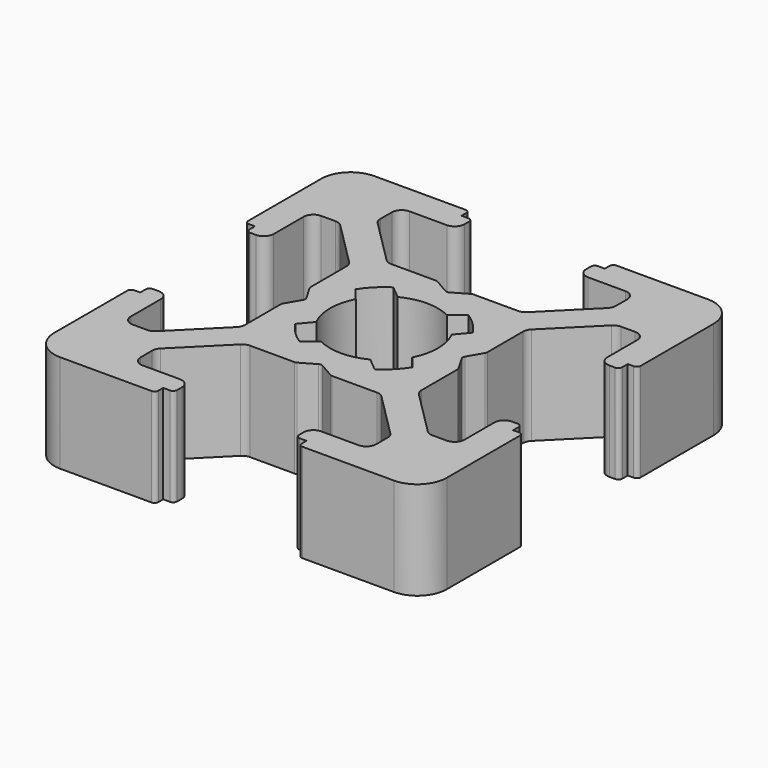
from build123d import *

# Parameters (mm, degrees)
PAD_DEPTH    = 5
POCKET_DEPTH = 5.001


with BuildPart() as part:
    # Sketch → Pad (new body)
    with BuildSketch(Plane(origin=(1.5, 0, 0), x_dir=(1, 0, 0), z_dir=(0, 0, 1))):
        with BuildLine():
            Line((0, 20), (4.65, 20))
            ThreePointArc((4.85, 19.8), (4.791421, 19.941421), (4.65, 20))
            Line((4.85, 19.8), (4.85, 19.5))
            Line((4.85, 19.5), (5.2, 19.5))
            ThreePointArc((5.4, 19.3), (5.341421, 19.441421), (5.2, 19.5))
            Line((5.4, 19.3), (5.4, 19))
            ThreePointArc((4.9, 18.5), (5.253553, 18.646446), (5.4, 19))
            Line((4.9, 18.5), (2.999999, 18.5))
            ThreePointArc((2.999999, 18.5), (2.646446, 18.353553), (2.499999, 18))
            Line((2.499999, 18), (2.499999, 17.267767))
            ThreePointArc((2.499999, 17.267767), (2.53806, 17.076425), (2.646446, 16.914213))
            Line((2.646446, 16.914213), (4.914213, 14.646447))
            ThreePointArc((4.914213, 14.646447), (5.076424, 14.53806), (5.267766, 14.5))
            Line((5.267766, 14.5), (7.54641, 14.5))
            ThreePointArc((7.64641, 14.473205), (7.598173, 14.493185), (7.54641, 14.5))
            Line((7.64641, 14.473205), (8.4, 14.03812))
            ThreePointArc((8.4, 14.03812), (8.5, 14.011325), (8.6, 14.03812))
            Line((8.6, 14.03812), (9.35359, 14.473205))
            ThreePointArc((9.45359, 14.5), (9.401827, 14.493185), (9.35359, 14.473205))
            Line((9.45359, 14.5), (11.732234, 14.5))
            ThreePointArc((11.732234, 14.5), (11.923576, 14.53806), (12.085787, 14.646447))
            Line((12.085787, 14.646447), (14.353554, 16.914213))
            ThreePointArc((14.353554, 16.914213), (14.46194, 17.076425), (14.500001, 17.267767))
            Line((14.500001, 17.267767), (14.500001, 18))
            ThreePointArc((14.500001, 18), (14.353554, 18.353553), (14.000001, 18.5))
            Line((14.000001, 18.5), (12.1, 18.5))
            ThreePointArc((11.6, 19), (11.746447, 18.646446), (12.1, 18.5))
            Line((11.6, 19), (11.6, 19.3))
            ThreePointArc((11.8, 19.5), (11.658579, 19.441421), (11.6, 19.3))
            Line((11.8, 19.5), (12.15, 19.5))
            Line((12.15, 19.5), (12.15, 19.8))
            ThreePointArc((12.35, 20), (12.208579, 19.941421), (12.15, 19.8))
            Line((12.35, 20), (17, 20))
            ThreePointArc((18.5, 18.5), (18.06066, 19.56066), (17, 20))
            Line((18.5, 18.5), (18.5, 13.85))
            ThreePointArc((18.3, 13.65), (18.441421, 13.708578), (18.5, 13.85))
            Line((18.3, 13.65), (18, 13.65))
            Line((18, 13.65), (18, 13.3))
            ThreePointArc((17.8, 13.1), (17.941421, 13.158579), (18, 13.3))
            Line((17.8, 13.1), (17.5, 13.1))
            ThreePointArc((17, 13.6), (17.146446, 13.246447), (17.5, 13.1))
            Line((17, 13.6), (17, 15.5))
            ThreePointArc((17, 15.5), (16.853553, 15.853553), (16.5, 16))
            Line((16.5, 16), (15.767767, 16))
            ThreePointArc((15.767767, 16), (15.576425, 15.961939), (15.414213, 15.853553))
            Line((15.414213, 15.853553), (13.146446, 13.585786))
            ThreePointArc((13.146446, 13.585786), (13.03806, 13.423574), (13, 13.232233))
            Line((13, 13.232233), (13, 10.953589))
            ThreePointArc((12.973205, 10.853589), (12.993185, 10.901825), (13, 10.953589))
            Line((12.973205, 10.853589), (12.53812, 10.1))
            ThreePointArc((12.53812, 10.1), (12.511325, 10), (12.53812, 9.9))
            Line((12.53812, 9.9), (12.973205, 9.146411))
            ThreePointArc((13, 9.046411), (12.993185, 9.098175), (12.973205, 9.146411))
            Line((13, 9.046411), (13, 6.767767))
            ThreePointArc((13, 6.767767), (13.03806, 6.576426), (13.146446, 6.414214))
            Line((13.146446, 6.414214), (15.414213, 4.146447))
            ThreePointArc((15.414213, 4.146447), (15.576425, 4.038061), (15.767767, 4))
            Line((15.767767, 4), (16.5, 4))
            ThreePointArc((16.5, 4), (16.853553, 4.146447), (17, 4.5))
            Line((17, 4.5), (17, 6.4))
            ThreePointArc((17.5, 6.9), (17.146446, 6.753553), (17, 6.4))
            Line((17.5, 6.9), (17.8, 6.9))
            ThreePointArc((18, 6.7), (17.941421, 6.841421), (17.8, 6.9))
            Line((18, 6.7), (18, 6.35))
            Line((18, 6.35), (18.3, 6.35))
            ThreePointArc((18.5, 6.15), (18.441421, 6.291422), (18.3, 6.35))
            Line((18.5, 6.15), (18.5, 1.5))
            ThreePointArc((17, 0), (18.06066, 0.43934), (18.5, 1.5))
            Line((17, 0), (12.35, 0))
            ThreePointArc((12.15, 0.2), (12.208579, 0.058579), (12.35, 0))
            Line((12.15, 0.2), (12.15, 0.5))
            Line((12.15, 0.5), (11.8, 0.5))
            ThreePointArc((11.6, 0.7), (11.658579, 0.558579), (11.8, 0.5))
            Line((11.6, 0.7), (11.6, 1))
            ThreePointArc((12.1, 1.5), (11.746447, 1.353554), (11.6, 1))
            Line((12.1, 1.5), (14.000001, 1.5))
            ThreePointArc((14.000001, 1.5), (14.353554, 1.646447), (14.500001, 2))
            Line((14.500001, 2), (14.500001, 2.732233))
            ThreePointArc((14.500001, 2.732233), (14.46194, 2.923575), (14.353554, 3.085787))
            Line((14.353554, 3.085787), (12.085787, 5.353553))
            ThreePointArc((12.085787, 5.353553), (11.923576, 5.46194), (11.732234, 5.5))
            Line((11.732234, 5.5), (9.45359, 5.5))
            ThreePointArc((9.35359, 5.526795), (9.401827, 5.506815), (9.45359, 5.5))
            Line((9.35359, 5.526795), (8.6, 5.96188))
            ThreePointArc((8.6, 5.96188), (8.5, 5.988675), (8.4, 5.96188))
            Line((8.4, 5.96188), (7.64641, 5.526795))
            ThreePointArc((7.54641, 5.5), (7.598173, 5.506815), (7.64641, 5.526795))
            Line((7.54641, 5.5), (5.267766, 5.5))
            ThreePointArc((5.267766, 5.5), (5.076424, 5.46194), (4.914213, 5.353553))
            Line((4.914213, 5.353553), (2.646446, 3.085787))
            ThreePointArc((2.646446, 3.085787), (2.53806, 2.923575), (2.499999, 2.732233))
            Line((2.499999, 2.732233), (2.499999, 2))
            ThreePointArc((2.499999, 2), (2.646446, 1.646447), (2.999999, 1.5))
            Line((2.999999, 1.5), (4.9, 1.5))
            ThreePointArc((5.4, 1), (5.253553, 1.353554), (4.9, 1.5))
            Line((5.4, 1), (5.4, 0.7))
            ThreePointArc((5.2, 0.5), (5.341421, 0.558579), (5.4, 0.7))
            Line((5.2, 0.5), (4.85, 0.5))
            Line((4.85, 0.5), (4.85, 0.2))
            ThreePointArc((4.65, 0), (4.791421, 0.058579), (4.85, 0.2))
            Line((4.65, 0), (0, 0))
            ThreePointArc((-1.5, 1.5), (-1.06066, 0.43934), (0, 0))
            Line((-1.5, 1.5), (-1.5, 6.15))
            ThreePointArc((-1.3, 6.35), (-1.441421, 6.291422), (-1.5, 6.15))
            Line((-1.3, 6.35), (-1, 6.35))
            Line((-1, 6.35), (-1, 6.7))
            ThreePointArc((-0.8, 6.9), (-0.941421, 6.841421), (-1, 6.7))
            Line((-0.8, 6.9), (-0.5, 6.9))
            ThreePointArc((0, 6.4), (-0.146446, 6.753553), (-0.5, 6.9))
            Line((0, 6.4), (0, 4.5))
            ThreePointArc((0, 4.5), (0.146447, 4.146447), (0.5, 4))
            Line((0.5, 4), (1.232233, 4))
            ThreePointArc((1.232233, 4), (1.423575, 4.038061), (1.585787, 4.146447))
            Line((1.585787, 4.146447), (3.853554, 6.414214))
            ThreePointArc((3.853554, 6.414214), (3.96194, 6.576426), (4, 6.767767))
            Line((4, 6.767767), (4, 9.046411))
            ThreePointArc((4.026795, 9.146411), (4.006815, 9.098175), (4, 9.046411))
            Line((4.026795, 9.146411), (4.46188, 9.9))
            ThreePointArc((4.46188, 9.9), (4.488675, 10), (4.46188, 10.1))
            Line((4.46188, 10.1), (4.026795, 10.853589))
            ThreePointArc((4, 10.953589), (4.006815, 10.901825), (4.026795, 10.853589))
            Line((4, 10.953589), (4, 13.232233))
            ThreePointArc((4, 13.232233), (3.96194, 13.423574), (3.853554, 13.585786))
            Line((3.853554, 13.585786), (1.585787, 15.853553))
            ThreePointArc((1.585787, 15.853553), (1.423575, 15.961939), (1.232233, 16))
            Line((1.232233, 16), (0.5, 16))
            ThreePointArc((0.5, 16), (0.146447, 15.853553), (0, 15.5))
            Line((0, 15.5), (0, 13.6))
            ThreePointArc((-0.5, 13.1), (-0.146446, 13.246447), (0, 13.6))
            Line((-0.5, 13.1), (-0.8, 13.1))
            ThreePointArc((-1, 13.3), (-0.941421, 13.158579), (-0.8, 13.1))
            Line((-1, 13.3), (-1, 13.65))
            Line((-1, 13.65), (-1.3, 13.65))
            ThreePointArc((-1.5, 13.85), (-1.441421, 13.708578), (-1.3, 13.65))
            Line((-1.5, 13.85), (-1.5, 18.5))
            ThreePointArc((0, 20), (-1.06066, 19.56066), (-1.5, 18.5))
        make_face()
    extrude(amount=PAD_DEPTH)

    # Sketch001 → Pocket (cut, through all)
    with BuildSketch(Plane(origin=(1.5, 0, 5), x_dir=(1, 0, 0), z_dir=(0, 0, 1))):
        with BuildLine():
            ThreePointArc((6.586105, 12.989641), (5.988263, 12.50841), (5.507825, 11.909931))
            Line((6.054705, 11.258185), (5.507825, 11.909931))
            ThreePointArc((6.054705, 11.258185), (5.75, 10), (6.054705, 8.741815))
            Line((5.507825, 8.090069), (6.054705, 8.741815))
            ThreePointArc((5.507825, 8.090069), (5.988263, 7.49159), (6.586105, 7.010359))
            Line((7.241815, 7.554705), (6.586105, 7.010359))
            ThreePointArc((7.241815, 7.554705), (8.5, 7.25), (9.758185, 7.554705))
            Line((10.413895, 7.010359), (9.758185, 7.554705))
            ThreePointArc((10.413895, 7.010359), (11.011737, 7.49159), (11.492175, 8.090069))
            Line((10.945295, 8.741815), (11.492175, 8.090069))
            ThreePointArc((10.945295, 8.741815), (11.25, 10), (10.945295, 11.258185))
            Line((11.492175, 11.909931), (10.945295, 11.258185))
            ThreePointArc((11.492175, 11.909931), (11.011737, 12.50841), (10.413895, 12.989641))
            Line((9.758185, 12.445295), (10.413895, 12.989641))
            ThreePointArc((9.758185, 12.445295), (8.5, 12.75), (7.241815, 12.445295))
            Line((6.586105, 12.989641), (7.241815, 12.445295))
        make_face()
    extrude(amount=-POCKET_DEPTH, mode=Mode.SUBTRACT)


solid = part.part
